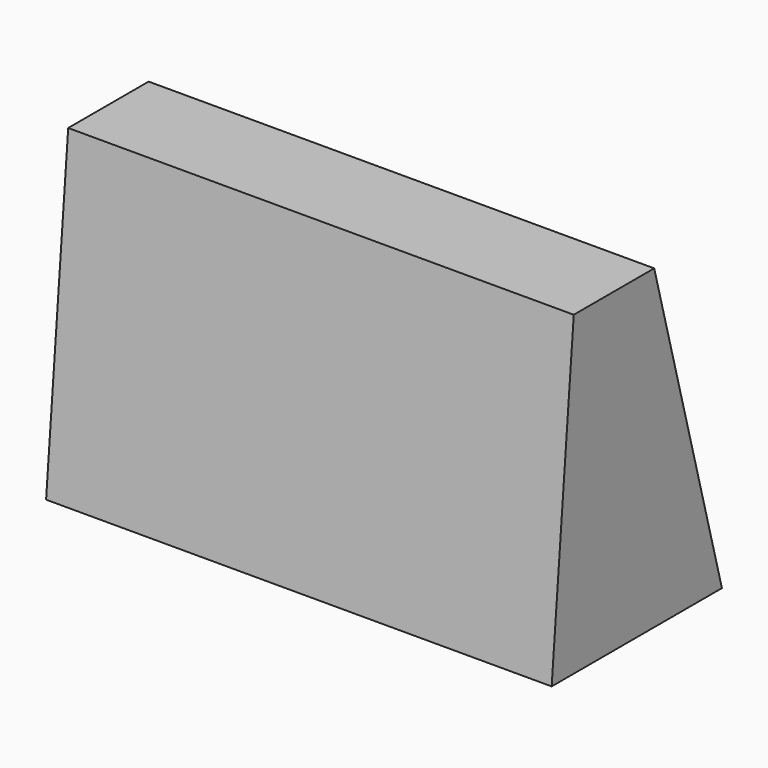
from build123d import *

# Parameters (mm, degrees)
F1_DEPTH = 280
F3_DEPTH = 560.001


with BuildPart() as f1:
    # F0 (on Right) → F1 (new body, symmetric)
    with BuildSketch(Plane.YZ):
        Polygon((30.621032, 350), (0, 0), (100, 0), (172.277687, -155), (277.277687, -155), (141.963345, 350), align=None)
    extrude(amount=F1_DEPTH, both=True)

    # F2 (on face) → F3 (cut, through all)
    with BuildSketch(Plane(origin=(-280, 0, 0), x_dir=(0, -1, 0), z_dir=(-1, 0, 0))):
        Polygon((-172.277687, -155), (-100, 0), (-235.745562, 0), (-277.277687, -155), align=None)
    extrude(amount=-F3_DEPTH, mode=Mode.SUBTRACT)


solid = f1.part
